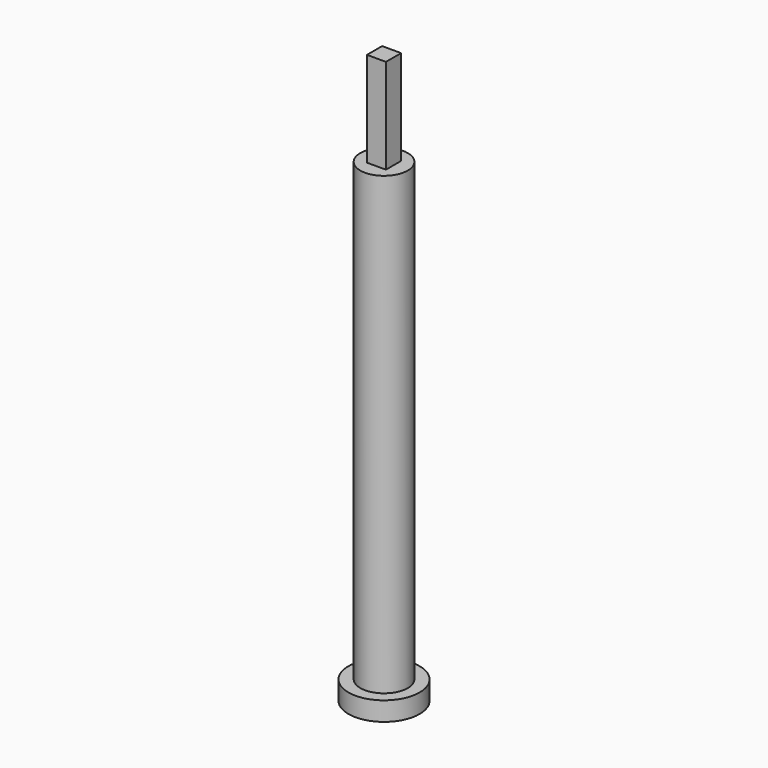
from build123d import *

# Parameters (mm, degrees)
F0_R     = 7.5
F1_DEPTH = 4
F2_R     = 5
F3_DEPTH = 100
F4_W     = 4
F4_H     = 4
F5_DEPTH = 20
F6_R     = 1.5
F7_DEPTH = 90


with BuildPart() as f1:
    # F0 (on Top) → F1 (new body)
    with BuildSketch(Plane.XY):
        Circle(F0_R)
    extrude(amount=F1_DEPTH)

    # F2 (on Top) → F3 (join)
    with BuildSketch(Plane.XY):
        Circle(F2_R)
    extrude(amount=F3_DEPTH)

    # F4 (on face) → F5 (join)
    with BuildSketch(Plane.XY.offset(100)):
        Rectangle(F4_W, F4_H)
    extrude(amount=F5_DEPTH)

    # F6 (on face) → F7 (cut)
    with BuildSketch(Plane(origin=(0, 0, 0), x_dir=(1, 0, 0), z_dir=(0, 0, -1))):
        Circle(F6_R)
    extrude(amount=-F7_DEPTH, mode=Mode.SUBTRACT)


solid = f1.part
